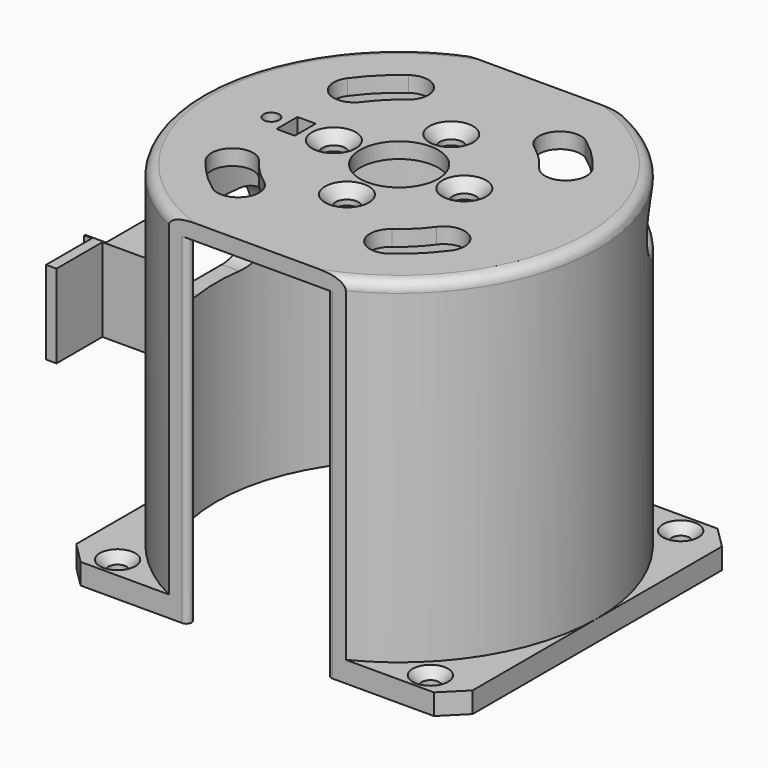
from build123d import *

# Parameters (mm, degrees)
SKETCH_W        = 76
SKETCH_H        = 76
SKETCH_R        = 35
SKETCH_R_2      = 1.7
PAD_DEPTH       = 65.3
SKETCH001_R     = 60
SKETCH001_R_2   = 38
POCKET_DEPTH    = 61.3
SKETCH002_R     = 38
PAD001_DEPTH    = 3
SKETCH003_W     = 100
SKETCH003_H     = 100
SKETCH003_W_2   = 80
SKETCH003_H_2   = 68
POCKET001_DEPTH = 68.301
SKETCH004_W     = 46
SKETCH004_H     = 16
PAD002_DEPTH    = 22
POCKET003_DEPTH = 20
SKETCH030_R     = 35
POCKET004_DEPTH = 18
SKETCH031_R     = 1.7
POCKET005_DEPTH = 30
SKETCH022_R     = 7.5
SKETCH022_R_2   = 1.5
SKETCH022_R_3   = 2.2
SKETCH022_W     = 3.5
SKETCH022_H     = 5
POCKET006_DEPTH = 5
SKETCH032_W     = 220
SKETCH032_H     = 220
POCKET007_DEPTH = 68.301
POCKET008_DEPTH = 20
SKETCH034_W     = 6
SKETCH034_H     = 16
PAD003_DEPTH    = 0.25
SKETCH035_W     = 2
SKETCH035_H     = 16
PAD004_DEPTH    = 11
FILLET_R        = 2
FILLET001_R     = 2
FILLET002_R     = 1
FILLET003_R     = 1
FILLET004_R     = 1
FILLET005_R     = 1
CHAMFER_SIZE    = 1.7
CHAMFER001_SIZE = 1.7
CHAMFER002_SIZE = 1.7
CHAMFER003_SIZE = 1.7
CHAMFER004_SIZE = 2
CHAMFER005_SIZE = 2
CHAMFER006_SIZE = 2
CHAMFER007_SIZE = 2
FILLET006_R     = 1


with BuildPart() as part:
    # Sketch → Pad (new body)
    with BuildSketch(Plane.XY):
        Rectangle(SKETCH_W, SKETCH_H)
        Circle(SKETCH_R, mode=Mode.SUBTRACT)
        with Locations((-30, 30)):
            Circle(SKETCH_R_2, mode=Mode.SUBTRACT)
        with Locations((30, 30)):
            Circle(SKETCH_R_2, mode=Mode.SUBTRACT)
        with Locations((30, -30)):
            Circle(SKETCH_R_2, mode=Mode.SUBTRACT)
        with Locations((-30, -30)):
            Circle(SKETCH_R_2, mode=Mode.SUBTRACT)
    extrude(amount=PAD_DEPTH)

    # Sketch001 → Pocket (cut)
    with BuildSketch(Plane.XY.offset(65.3)):
        Circle(SKETCH001_R)
        Circle(SKETCH001_R_2, mode=Mode.SUBTRACT)
    extrude(amount=-POCKET_DEPTH, mode=Mode.SUBTRACT)

    # Sketch002 → Pad001 (new body)
    with BuildSketch(Plane.XY.offset(65.3)):
        Circle(SKETCH002_R)
    extrude(amount=PAD001_DEPTH)

    # Sketch003 → Pocket001 (cut, through all)
    with BuildSketch(Plane.XY.offset(68.3)):
        Rectangle(SKETCH003_W, SKETCH003_H)
        Rectangle(SKETCH003_W_2, SKETCH003_H_2, mode=Mode.SUBTRACT)
    extrude(amount=-POCKET001_DEPTH, mode=Mode.SUBTRACT)

    # Sketch004 → Pad002 (new body)
    with BuildSketch(Plane(origin=(-38, 0, 0), x_dir=(0, -1, 0), z_dir=(-1, 0, 0))):
        with Locations((0, 44)):
            Rectangle(SKETCH004_W, SKETCH004_H)
    extrude(amount=-PAD002_DEPTH)

    # Sketch029 → Pocket003 (cut)
    with BuildSketch(Plane.YZ.offset(-16)):
        Polygon((-15.883419, 41.2), (-14.266838, 44), (-15.883419, 46.8), (-19.116581, 46.8), (-20.733162, 44), (-19.116581, 41.2), align=None)
        Polygon((14.266838, 44), (15.883419, 41.2), (19.116581, 41.2), (20.733162, 44), (19.116581, 46.8), (15.883419, 46.8), align=None)
    extrude(amount=-POCKET003_DEPTH, mode=Mode.SUBTRACT)

    # Sketch030 → Pocket004 (cut)
    with BuildSketch(Plane(origin=(0, 0, 36), x_dir=(1, 0, 0), z_dir=(0, 0, -1))):
        Circle(SKETCH030_R)
    extrude(amount=-POCKET004_DEPTH, mode=Mode.SUBTRACT)

    # Sketch031 → Pocket005 (cut)
    with BuildSketch(Plane(origin=(-38, 0, 0), x_dir=(0, -1, 0), z_dir=(-1, 0, 0))):
        with Locations((-17.5, 44)):
            Circle(SKETCH031_R)
        with Locations((17.5, 44)):
            Circle(SKETCH031_R)
        with BuildLine():
            ThreePointArc((-5, 51), (-12, 44), (-5, 37))
            Line((-5, 37), (5, 37))
            ThreePointArc((5, 37), (12, 44), (5, 51))
            Line((-5, 51), (5, 51))
        make_face()
    extrude(amount=-POCKET005_DEPTH, mode=Mode.SUBTRACT)

    # Sketch022 → Pocket006 (cut)
    with BuildSketch(Plane.XY.offset(68.3)):
        Circle(SKETCH022_R)
        with Locations((-24.5, 0)):
            Circle(SKETCH022_R_2)
        with Locations((0, -12.5)):
            Circle(SKETCH022_R_3)
        with Locations((0, 12.5)):
            Circle(SKETCH022_R_3)
        with Locations((12.5, 0)):
            Circle(SKETCH022_R_3)
        with Locations((-12.5, 0)):
            Circle(SKETCH022_R_3)
        with BuildLine():
            ThreePointArc((-23.514078, 16.973159), (-22.611882, 11.388713), (-17.027436, 12.290908))
            ThreePointArc((-12.290908, 17.027436), (-14.849242, 14.849242), (-17.027436, 12.290908))
            ThreePointArc((-12.290908, 17.027436), (-11.388713, 22.611882), (-16.973159, 23.514078))
            ThreePointArc((-16.973159, 23.514078), (-20.506097, 20.506097), (-23.514078, 16.973159))
        make_face()
        with BuildLine():
            ThreePointArc((12.290908, -17.027436), (14.849242, -14.849242), (17.027436, -12.290908))
            ThreePointArc((23.514078, -16.973159), (22.611882, -11.388713), (17.027436, -12.290908))
            ThreePointArc((16.973159, -23.514078), (20.506097, -20.506097), (23.514078, -16.973159))
            ThreePointArc((12.290908, -17.027436), (11.388713, -22.611882), (16.973159, -23.514078))
        make_face()
        with BuildLine():
            ThreePointArc((23.514078, 16.973159), (20.506097, 20.506097), (16.973159, 23.514078))
            ThreePointArc((16.973159, 23.514078), (11.388713, 22.611882), (12.290908, 17.027436))
            ThreePointArc((17.027436, 12.290908), (14.849242, 14.849242), (12.290908, 17.027436))
            ThreePointArc((17.027436, 12.290908), (22.611882, 11.388713), (23.514078, 16.973159))
        make_face()
        with BuildLine():
            ThreePointArc((-16.973159, -23.514078), (-11.388713, -22.611882), (-12.290908, -17.027436))
            ThreePointArc((-17.027436, -12.290908), (-14.849242, -14.849242), (-12.290908, -17.027436))
            ThreePointArc((-17.027436, -12.290908), (-22.611882, -11.388713), (-23.514078, -16.973159))
            ThreePointArc((-23.514078, -16.973159), (-20.506097, -20.506097), (-16.973159, -23.514078))
        make_face()
        with Locations((-19.75, 0)):
            Rectangle(SKETCH022_W, SKETCH022_H)
    extrude(amount=-POCKET006_DEPTH, mode=Mode.SUBTRACT)

    # Sketch032 → Pocket007 (cut, through all)
    with BuildSketch(Plane.XY.offset(68.3)):
        Rectangle(SKETCH032_W, SKETCH032_H)
        Polygon((-67.882251, 0), (0, 67.882251), (67.882251, 0), (0, -67.882251), align=None, mode=Mode.SUBTRACT)
    extrude(amount=-POCKET007_DEPTH, mode=Mode.SUBTRACT)

    # Sketch033 → Pocket008 (cut)
    with BuildSketch(Plane(origin=(33.941125, 33.941125, 0), x_dir=(-0.707107, 0.707107, 0), z_dir=(0.707107, 0.707107, 0))):
        with BuildLine():
            ThreePointArc((-6, 65), (-11, 60), (-6, 55))
            Line((-6, 55), (6, 55))
            ThreePointArc((6, 55), (11, 60), (6, 65))
            Line((-6, 65), (6, 65))
        make_face()
    extrude(amount=-POCKET008_DEPTH, mode=Mode.SUBTRACT)

    # Sketch034 → Pad003 (new body)
    with BuildSketch(Plane.XZ.offset(23)):
        with Locations((-39, 44)):
            Rectangle(SKETCH034_W, SKETCH034_H)
    extrude(amount=-PAD003_DEPTH)

    # Sketch035 → Pad004 (new body)
    with BuildSketch(Plane.XZ.offset(23)):
        with Locations((-39.5, 44)):
            Rectangle(SKETCH035_W, SKETCH035_H)
    extrude(amount=PAD004_DEPTH)

    # Fillet
    fillet_edges = [part.edges().sort_by_distance(p)[0] for p in [
        (-38, 0, 68.3),
    ]]
    fillet(fillet_edges, radius=FILLET_R)

    # Fillet001
    fillet001_edges = [part.edges().sort_by_distance(p)[0] for p in [
        (32.317808, -19.98898, 68.3),
    ]]
    fillet(fillet001_edges, radius=FILLET001_R)

    # Fillet002
    fillet002_edges = [part.edges().sort_by_distance(p)[0] for p in [
        (-8.306624, 34, 18),
    ]]
    fillet(fillet002_edges, radius=FILLET002_R)

    # Fillet003
    fillet003_edges = [part.edges().sort_by_distance(p)[0] for p in [
        (8.306624, 34, 18),
    ]]
    fillet(fillet003_edges, radius=FILLET003_R)

    # Fillet004
    fillet004_edges = [part.edges().sort_by_distance(p)[0] for p in [
        (-8.306624, -34, 18),
    ]]
    fillet(fillet004_edges, radius=FILLET004_R)

    # Fillet005
    fillet005_edges = [part.edges().sort_by_distance(p)[0] for p in [
        (8.306624, -34, 18),
    ]]
    fillet(fillet005_edges, radius=FILLET005_R)

    # Chamfer
    chamfer_edges = [part.edges().sort_by_distance(p)[0] for p in [
        (-31.7, -30, 4),
    ]]
    chamfer(chamfer_edges, length=CHAMFER_SIZE)

    # Chamfer001
    chamfer001_edges = [part.edges().sort_by_distance(p)[0] for p in [
        (28.3, -30, 4),
    ]]
    chamfer(chamfer001_edges, length=CHAMFER001_SIZE)

    # Chamfer002
    chamfer002_edges = [part.edges().sort_by_distance(p)[0] for p in [
        (-31.7, 30, 4),
    ]]
    chamfer(chamfer002_edges, length=CHAMFER002_SIZE)

    # Chamfer003
    chamfer003_edges = [part.edges().sort_by_distance(p)[0] for p in [
        (28.3, 30, 4),
    ]]
    chamfer(chamfer003_edges, length=CHAMFER003_SIZE)

    # Chamfer004
    chamfer004_edges = [part.edges().sort_by_distance(p)[0] for p in [
        (-2.2, 12.5, 68.3),
    ]]
    chamfer(chamfer004_edges, length=CHAMFER004_SIZE)

    # Chamfer005
    chamfer005_edges = [part.edges().sort_by_distance(p)[0] for p in [
        (10.3, 0, 68.3),
    ]]
    chamfer(chamfer005_edges, length=CHAMFER005_SIZE)

    # Chamfer006
    chamfer006_edges = [part.edges().sort_by_distance(p)[0] for p in [
        (-2.2, -12.5, 68.3),
    ]]
    chamfer(chamfer006_edges, length=CHAMFER006_SIZE)

    # Chamfer007
    chamfer007_edges = [part.edges().sort_by_distance(p)[0] for p in [
        (-14.7, 0, 68.3),
    ]]
    chamfer(chamfer007_edges, length=CHAMFER007_SIZE)

    # Fillet006
    fillet006_edges = [part.edges().sort_by_distance(p)[0] for p in [
        (26.870058, 26.870058, 55),
    ]]
    fillet(fillet006_edges, radius=FILLET006_R)


solid = part.part
